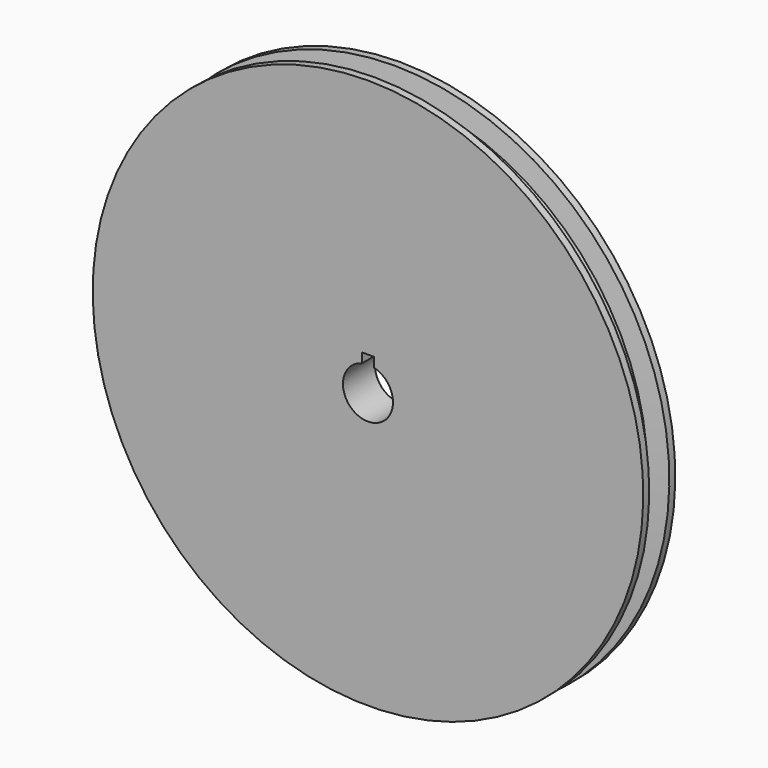
from build123d import *

# Parameters (mm, degrees)
F3_DEPTH = 40.001


with BuildPart() as f1:
    # F0 (on Right) → F1 (revolve)
    with BuildSketch(Plane.YZ):
        Polygon((-20, 25), (0, 25), (20, 25), (20, 275), (12.558388, 275), (10, 255.164309), (0, 255.164309), (-10, 255.164309), (-12.558388, 275), (-20, 275), align=None)
    revolve(axis=Axis((0, 0.25152, 0), (0, 1, 0)))

    # F2 (on face) → F3 (cut, through all)
    with BuildSketch(Plane.XZ.offset(20)):
        Polygon((0, 33.918292), (-6, 33.918292), (-6, 23.918292), (0, 23.918292), (6, 23.918292), (6, 33.918292), align=None)
    extrude(amount=-F3_DEPTH, mode=Mode.SUBTRACT)


solid = f1.part
